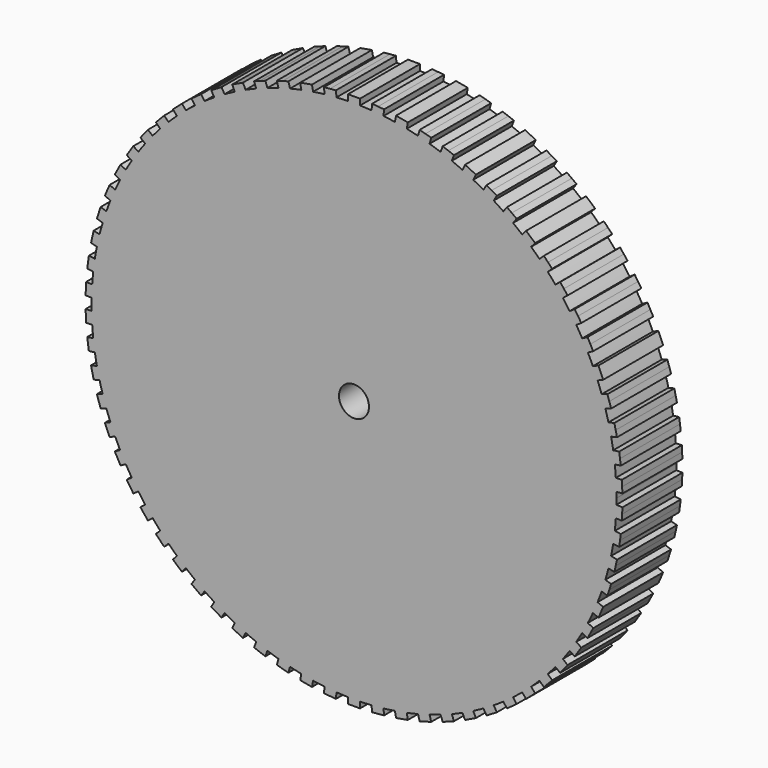
from build123d import *

# Parameters (mm, degrees)
F1_DEPTH = 6.35
F2_R     = 1.27
F3_DEPTH = 6.35


with BuildPart() as f1:
    # F0 (on Front) → F1 (new body)
    with BuildSketch(Plane.XZ):
        with BuildLine():
            ThreePointArc((-22.086295, 2.479152), (-22.023858, 2.983334), (-21.949914, 3.485957))
            Line((-21.949914, 3.485957), (-22.45907, 3.554927))
            Line((-22.45907, 3.554927), (-22.527261, 3.051525))
            Line((-22.527261, 3.051525), (-22.595451, 2.548122))
            Line((-22.595451, 2.548122), (-22.086295, 2.479152))
        make_face()
        with BuildLine():
            Line((-11.223647, -19.775669), (-10.960116, -19.334593))
            ThreePointArc((-10.960116, -19.334593), (-11.399186, -19.079024), (-11.8323, -18.813487))
            Line((-11.8323, -18.813487), (-12.095831, -19.254564))
            Line((-12.095831, -19.254564), (-11.659739, -19.515116))
            Line((-11.659739, -19.515116), (-11.223647, -19.775669))
        make_face()
        with BuildLine():
            ThreePointArc((-20.630822, 8.265579), (-20.436505, 8.734981), (-20.231509, 9.199819))
            Line((-20.231509, 9.199819), (-20.703968, 9.401758))
            Line((-20.703968, 9.401758), (-20.903625, 8.934638))
            Line((-20.903625, 8.934638), (-21.103282, 8.467518))
            Line((-21.103282, 8.467518), (-20.630822, 8.265579))
        make_face()
        with BuildLine():
            ThreePointArc((-21.288689, 6.382972), (-21.137231, 6.867903), (-20.974728, 7.349245))
            Line((-20.974728, 7.349245), (-21.463387, 7.50802))
            Line((-21.463387, 7.50802), (-21.620368, 7.024883))
            Line((-21.620368, 7.024883), (-21.777348, 6.541747))
            Line((-21.777348, 6.541747), (-21.288689, 6.382972))
        make_face()
        with BuildLine():
            Line((19.252209, -12.099578), (18.8234, -11.816523))
            ThreePointArc((18.8234, -11.816523), (18.548391, -12.243685), (18.263689, -12.66445))
            Line((18.263689, -12.66445), (18.692498, -12.947504))
            Line((18.692498, -12.947504), (18.972354, -12.523541))
            Line((18.972354, -12.523541), (19.252209, -12.099578))
        make_face()
        with BuildLine():
            Line((-9.405787, -20.702138), (-9.182855, -20.239215))
            ThreePointArc((-9.182855, -20.239215), (-9.643066, -20.024033), (-10.098239, -19.798389))
            Line((-10.098239, -19.798389), (-10.321171, -20.261312))
            Line((-10.321171, -20.261312), (-9.863479, -20.481725))
            Line((-9.863479, -20.481725), (-9.405787, -20.702138))
        make_face()
        with BuildLine():
            Line((20.259304, -10.325114), (19.806848, -10.081637))
            ThreePointArc((19.806848, -10.081637), (19.571236, -10.531731), (19.325397, -10.976322))
            Line((19.325397, -10.976322), (19.777853, -11.219799))
            Line((19.777853, -11.219799), (20.018578, -10.772456))
            Line((20.018578, -10.772456), (20.259304, -10.325114))
        make_face()
        with BuildLine():
            ThreePointArc((-21.775153, 4.448972), (-21.667773, 4.945528), (-21.549071, 5.439499))
            Line((-21.549071, 5.439499), (-22.049996, 5.553832))
            Line((-22.049996, 5.553832), (-22.163036, 5.058568))
            Line((-22.163036, 5.058568), (-22.276077, 4.563305))
            Line((-22.276077, 4.563305), (-21.775153, 4.448972))
        make_face()
        with BuildLine():
            Line((22.276077, -4.563305), (21.775153, -4.448972))
            ThreePointArc((21.775153, -4.448972), (21.667773, -4.945528), (21.549071, -5.439499))
            Line((21.549071, -5.439499), (22.049996, -5.553832))
            Line((22.049996, -5.553832), (22.163036, -5.058568))
            Line((22.163036, -5.058568), (22.276077, -4.563305))
        make_face()
        with BuildLine():
            Line((-22.687318, -1.527401), (-22.174029, -1.504349))
            ThreePointArc((-22.174029, -1.504349), (-22.202621, -0.997121), (-22.219612, -0.489372))
            Line((-22.219612, -0.489372), (-22.732901, -0.512424))
            Line((-22.732901, -0.512424), (-22.710109, -1.019912))
            Line((-22.710109, -1.019912), (-22.687318, -1.527401))
        make_face()
        with BuildLine():
            Line((-22.049996, -5.553832), (-21.549071, -5.439499))
            ThreePointArc((-21.549071, -5.439499), (-21.667773, -4.945528), (-21.775153, -4.448972))
            Line((-21.775153, -4.448972), (-22.276077, -4.563305))
            Line((-22.276077, -4.563305), (-22.163036, -5.058568))
            Line((-22.163036, -5.058568), (-22.049996, -5.553832))
        make_face()
        with BuildLine():
            ThreePointArc((-8.282873, 20.623885), (-7.809305, 20.80782), (-7.331658, 20.980882))
            Line((-7.331658, 20.980882), (-7.512197, 21.461926))
            Line((-7.512197, 21.461926), (-7.987804, 21.283427))
            Line((-7.987804, 21.283427), (-8.463411, 21.104929))
            Line((-8.463411, 21.104929), (-8.282873, 20.623885))
        make_face()
        with BuildLine():
            ThreePointArc((-11.8323, 18.813487), (-11.399186, 19.079024), (-10.960116, 19.334593))
            Line((-10.960116, 19.334593), (-11.223647, 19.775669))
            Line((-11.223647, 19.775669), (-11.659739, 19.515116))
            Line((-11.659739, 19.515116), (-12.095831, 19.254564))
            Line((-12.095831, 19.254564), (-11.8323, 18.813487))
        make_face()
        with BuildLine():
            Line((-21.463387, -7.50802), (-20.974728, -7.349245))
            ThreePointArc((-20.974728, -7.349245), (-21.137231, -6.867903), (-21.288689, -6.382972))
            Line((-21.288689, -6.382972), (-21.777348, -6.541747))
            Line((-21.777348, -6.541747), (-21.620368, -7.024883))
            Line((-21.620368, -7.024883), (-21.463387, -7.50802))
        make_face()
        with BuildLine():
            ThreePointArc((-10.098239, 19.798389), (-9.643066, 20.024033), (-9.182855, 20.239215))
            Line((-9.182855, 20.239215), (-9.405787, 20.702138))
            Line((-9.405787, 20.702138), (-9.863479, 20.481725))
            Line((-9.863479, 20.481725), (-10.321171, 20.261312))
            Line((-10.321171, 20.261312), (-10.098239, 19.798389))
        make_face()
        with BuildLine():
            Line((-20.703968, -9.401758), (-20.231509, -9.199819))
            ThreePointArc((-20.231509, -9.199819), (-20.436505, -8.734981), (-20.630822, -8.265579))
            Line((-20.630822, -8.265579), (-21.103282, -8.467518))
            Line((-21.103282, -8.467518), (-20.903625, -8.934638))
            Line((-20.903625, -8.934638), (-20.703968, -9.401758))
        make_face()
        with BuildLine():
            ThreePointArc((-16.410979, 14.987675), (-16.064116, 15.358867), (-15.708859, 15.722035))
            Line((-15.708859, 15.722035), (-16.080236, 16.077107))
            Line((-16.080236, 16.077107), (-16.431296, 15.709927))
            Line((-16.431296, 15.709927), (-16.782355, 15.342747))
            Line((-16.782355, 15.342747), (-16.410979, 14.987675))
        make_face()
        with BuildLine():
            Line((-17.456642, -14.570964), (-17.054932, -14.250611))
            ThreePointArc((-17.054932, -14.250611), (-17.376205, -13.857061), (-17.688398, -13.45627))
            Line((-17.688398, -13.45627), (-18.090108, -13.776623))
            Line((-18.090108, -13.776623), (-17.773375, -14.173794))
            Line((-17.773375, -14.173794), (-17.456642, -14.570964))
        make_face()
        with BuildLine():
            Line((12.095831, -19.254564), (11.8323, -18.813487))
            ThreePointArc((11.8323, -18.813487), (11.399186, -19.079024), (10.960116, -19.334593))
            Line((10.960116, -19.334593), (11.223647, -19.775669))
            Line((11.223647, -19.775669), (11.659739, -19.515116))
            Line((11.659739, -19.515116), (12.095831, -19.254564))
        make_face()
        with BuildLine():
            ThreePointArc((20.974728, 7.349245), (21.137231, 6.867903), (21.288689, 6.382972))
            Line((21.288689, 6.382972), (21.777348, 6.541747))
            Line((21.777348, 6.541747), (21.620368, 7.024883))
            Line((21.620368, 7.024883), (21.463387, 7.50802))
            Line((21.463387, 7.50802), (20.974728, 7.349245))
        make_face()
        with BuildLine():
            ThreePointArc((9.182855, 20.239215), (9.643066, 20.024033), (10.098239, 19.798389))
            Line((10.098239, 19.798389), (10.321171, 20.261312))
            Line((10.321171, 20.261312), (9.863479, 20.481725))
            Line((9.863479, 20.481725), (9.405787, 20.702138))
            Line((9.405787, 20.702138), (9.182855, 20.239215))
        make_face()
        with BuildLine():
            ThreePointArc((15.708859, 15.722035), (16.064116, 15.358867), (16.410979, 14.987675))
            Line((16.410979, 14.987675), (16.782355, 15.342747))
            Line((16.782355, 15.342747), (16.431296, 15.709927))
            Line((16.431296, 15.709927), (16.080236, 16.077107))
            Line((16.080236, 16.077107), (15.708859, 15.722035))
        make_face()
        with BuildLine():
            ThreePointArc((19.325397, 10.976322), (19.571236, 10.531731), (19.806848, 10.081637))
            Line((19.806848, 10.081637), (20.259304, 10.325114))
            Line((20.259304, 10.325114), (20.018578, 10.772456))
            Line((20.018578, 10.772456), (19.777853, 11.219799))
            Line((19.777853, 11.219799), (19.325397, 10.976322))
        make_face()
        with BuildLine():
            Line((-18.692498, -12.947504), (-18.263689, -12.66445))
            ThreePointArc((-18.263689, -12.66445), (-18.548391, -12.243685), (-18.8234, -11.816523))
            Line((-18.8234, -11.816523), (-19.252209, -12.099578))
            Line((-19.252209, -12.099578), (-18.972354, -12.523541))
            Line((-18.972354, -12.523541), (-18.692498, -12.947504))
        make_face()
        with BuildLine():
            Line((10.321171, -20.261312), (10.098239, -19.798389))
            ThreePointArc((10.098239, -19.798389), (9.643066, -20.024033), (9.182855, -20.239215))
            Line((9.182855, -20.239215), (9.405787, -20.702138))
            Line((9.405787, -20.702138), (9.863479, -20.481725))
            Line((9.863479, -20.481725), (10.321171, -20.261312))
        make_face()
        with BuildLine():
            ThreePointArc((10.960116, 19.334593), (11.399186, 19.079024), (11.8323, 18.813487))
            Line((11.8323, 18.813487), (12.095831, 19.254564))
            Line((12.095831, 19.254564), (11.659739, 19.515116))
            Line((11.659739, 19.515116), (11.223647, 19.775669))
            Line((11.223647, 19.775669), (10.960116, 19.334593))
        make_face()
        with BuildLine():
            ThreePointArc((7.331658, 20.980882), (7.809305, 20.80782), (8.282873, 20.623885))
            Line((8.282873, 20.623885), (8.463411, 21.104929))
            Line((8.463411, 21.104929), (7.987804, 21.283427))
            Line((7.987804, 21.283427), (7.512197, 21.461926))
            Line((7.512197, 21.461926), (7.331658, 20.980882))
        make_face()
        with BuildLine():
            ThreePointArc((20.231509, 9.199819), (20.436505, 8.734981), (20.630822, 8.265579))
            Line((20.630822, 8.265579), (21.103282, 8.467518))
            Line((21.103282, 8.467518), (20.903625, 8.934638))
            Line((20.903625, 8.934638), (20.703968, 9.401758))
            Line((20.703968, 9.401758), (20.231509, 9.199819))
        make_face()
        with BuildLine():
            ThreePointArc((12.649134, 18.2743), (13.063527, 17.980403), (13.471095, 17.67711))
            Line((13.471095, 17.67711), (13.773103, 18.092788))
            Line((13.773103, 18.092788), (13.362122, 18.391383))
            Line((13.362122, 18.391383), (12.951142, 18.689978))
            Line((12.951142, 18.689978), (12.649134, 18.2743))
        make_face()
        with BuildLine():
            ThreePointArc((14.236308, 17.066874), (14.622688, 16.737013), (15.001428, 16.398408))
            Line((15.001428, 16.398408), (15.339481, 16.785341))
            Line((15.339481, 16.785341), (14.956921, 17.119574))
            Line((14.956921, 17.119574), (14.574361, 17.453807))
            Line((14.574361, 17.453807), (14.236308, 17.066874))
        make_face()
        with BuildLine():
            ThreePointArc((17.054932, 14.250611), (17.376205, 13.857061), (17.688398, 13.45627))
            Line((17.688398, 13.45627), (18.090108, 13.776623))
            Line((18.090108, 13.776623), (17.773375, 14.173794))
            Line((17.773375, 14.173794), (17.456642, 14.570964))
            Line((17.456642, 14.570964), (17.054932, 14.250611))
        make_face()
        with BuildLine():
            ThreePointArc((18.263689, 12.66445), (18.548391, 12.243685), (18.8234, 11.816523))
            Line((18.8234, 11.816523), (19.252209, 12.099578))
            Line((19.252209, 12.099578), (18.972354, 12.523541))
            Line((18.972354, 12.523541), (18.692498, 12.947504))
            Line((18.692498, 12.947504), (18.263689, 12.66445))
        make_face()
        with BuildLine():
            ThreePointArc((-15.001428, 16.398408), (-14.622688, 16.737013), (-14.236308, 17.066874))
            Line((-14.236308, 17.066874), (-14.574361, 17.453807))
            Line((-14.574361, 17.453807), (-14.956921, 17.119574))
            Line((-14.956921, 17.119574), (-15.339481, 16.785341))
            Line((-15.339481, 16.785341), (-15.001428, 16.398408))
        make_face()
        with BuildLine():
            ThreePointArc((-13.471095, 17.67711), (-13.063527, 17.980403), (-12.649134, 18.2743))
            Line((-12.649134, 18.2743), (-12.951142, 18.689978))
            Line((-12.951142, 18.689978), (-13.362122, 18.391383))
            Line((-13.362122, 18.391383), (-13.773103, 18.092788))
            Line((-13.773103, 18.092788), (-13.471095, 17.67711))
        make_face()
        with BuildLine():
            Line((-19.777853, -11.219799), (-19.325397, -10.976322))
            ThreePointArc((-19.325397, -10.976322), (-19.571236, -10.531731), (-19.806848, -10.081637))
            Line((-19.806848, -10.081637), (-20.259304, -10.325114))
            Line((-20.259304, -10.325114), (-20.018578, -10.772456))
            Line((-20.018578, -10.772456), (-19.777853, -11.219799))
        make_face()
        with BuildLine():
            Line((13.773103, -18.092788), (13.471095, -17.67711))
            ThreePointArc((13.471095, -17.67711), (13.063527, -17.980403), (12.649134, -18.2743))
            Line((12.649134, -18.2743), (12.951142, -18.689978))
            Line((12.951142, -18.689978), (13.362122, -18.391383))
            Line((13.362122, -18.391383), (13.773103, -18.092788))
        make_face()
        with BuildLine():
            ThreePointArc((-18.8234, 11.816523), (-18.548391, 12.243685), (-18.263689, 12.66445))
            Line((-18.263689, 12.66445), (-18.692498, 12.947504))
            Line((-18.692498, 12.947504), (-18.972354, 12.523541))
            Line((-18.972354, 12.523541), (-19.252209, 12.099578))
            Line((-19.252209, 12.099578), (-18.8234, 11.816523))
        make_face()
        with BuildLine():
            Line((15.339481, -16.785341), (15.001428, -16.398408))
            ThreePointArc((15.001428, -16.398408), (14.622688, -16.737013), (14.236308, -17.066874))
            Line((14.236308, -17.066874), (14.574361, -17.453807))
            Line((14.574361, -17.453807), (14.956921, -17.119574))
            Line((14.956921, -17.119574), (15.339481, -16.785341))
        make_face()
        with BuildLine():
            ThreePointArc((-17.688398, 13.45627), (-17.376205, 13.857061), (-17.054932, 14.250611))
            Line((-17.054932, 14.250611), (-17.456642, 14.570964))
            Line((-17.456642, 14.570964), (-17.773375, 14.173794))
            Line((-17.773375, 14.173794), (-18.090108, 13.776623))
            Line((-18.090108, 13.776623), (-17.688398, 13.45627))
        make_face()
        with BuildLine():
            ThreePointArc((-19.806848, 10.081637), (-19.571236, 10.531731), (-19.325397, 10.976322))
            Line((-19.325397, 10.976322), (-19.777853, 11.219799))
            Line((-19.777853, 11.219799), (-20.018578, 10.772456))
            Line((-20.018578, 10.772456), (-20.259304, 10.325114))
            Line((-20.259304, 10.325114), (-19.806848, 10.081637))
        make_face()
        with BuildLine():
            Line((-12.951142, -18.689978), (-12.649134, -18.2743))
            ThreePointArc((-12.649134, -18.2743), (-13.063527, -17.980403), (-13.471095, -17.67711))
            Line((-13.471095, -17.67711), (-13.773103, -18.092788))
            Line((-13.773103, -18.092788), (-13.362122, -18.391383))
            Line((-13.362122, -18.391383), (-12.951142, -18.689978))
        make_face()
        with BuildLine():
            Line((-16.080236, -16.077107), (-15.708859, -15.722035))
            ThreePointArc((-15.708859, -15.722035), (-16.064116, -15.358867), (-16.410979, -14.987675))
            Line((-16.410979, -14.987675), (-16.782355, -15.342747))
            Line((-16.782355, -15.342747), (-16.431296, -15.709927))
            Line((-16.431296, -15.709927), (-16.080236, -16.077107))
        make_face()
        with BuildLine():
            Line((16.782355, -15.342747), (16.410979, -14.987675))
            ThreePointArc((16.410979, -14.987675), (16.064116, -15.358867), (15.708859, -15.722035))
            Line((15.708859, -15.722035), (16.080236, -16.077107))
            Line((16.080236, -16.077107), (16.431296, -15.709927))
            Line((16.431296, -15.709927), (16.782355, -15.342747))
        make_face()
        with BuildLine():
            Line((21.103282, -8.467518), (20.630822, -8.265579))
            ThreePointArc((20.630822, -8.265579), (20.436505, -8.734981), (20.231509, -9.199819))
            Line((20.231509, -9.199819), (20.703968, -9.401758))
            Line((20.703968, -9.401758), (20.903625, -8.934638))
            Line((20.903625, -8.934638), (21.103282, -8.467518))
        make_face()
        with BuildLine():
            ThreePointArc((1.485758, 22.175282), (1.992234, 22.135529), (2.497668, 22.084209))
            Line((2.497668, 22.084209), (2.543725, 22.595947))
            Line((2.543725, 22.595947), (2.03777, 22.641484))
            Line((2.03777, 22.641484), (1.531815, 22.68702))
            Line((1.531815, 22.68702), (1.485758, 22.175282))
        make_face()
        with BuildLine():
            Line((18.090108, -13.776623), (17.688398, -13.45627))
            ThreePointArc((17.688398, -13.45627), (17.376205, -13.857061), (17.054932, -14.250611))
            Line((17.054932, -14.250611), (17.456642, -14.570964))
            Line((17.456642, -14.570964), (17.773375, -14.173794))
            Line((17.773375, -14.173794), (18.090108, -13.776623))
        make_face()
        with BuildLine():
            Line((-7.512197, -21.461926), (-7.331658, -20.980882))
            ThreePointArc((-7.331658, -20.980882), (-7.809305, -20.80782), (-8.282873, -20.623885))
            Line((-8.282873, -20.623885), (-8.463411, -21.104929))
            Line((-8.463411, -21.104929), (-7.987804, -21.283427))
            Line((-7.987804, -21.283427), (-7.512197, -21.461926))
        make_face()
        with BuildLine():
            Line((21.777348, -6.541747), (21.288689, -6.382972))
            ThreePointArc((21.288689, -6.382972), (21.137231, -6.867903), (20.974728, -7.349245))
            Line((20.974728, -7.349245), (21.463387, -7.50802))
            Line((21.463387, -7.50802), (21.620368, -7.024883))
            Line((21.620368, -7.024883), (21.777348, -6.541747))
        make_face()
        with BuildLine():
            ThreePointArc((-2.497668, 22.084209), (-1.992234, 22.135529), (-1.485758, 22.175282))
            Line((-1.485758, 22.175282), (-1.531815, 22.68702))
            Line((-1.531815, 22.68702), (-2.03777, 22.641484))
            Line((-2.03777, 22.641484), (-2.543725, 22.595947))
            Line((-2.543725, 22.595947), (-2.497668, 22.084209))
        make_face()
        with BuildLine():
            Line((-22.45907, -3.554927), (-21.949914, -3.485957))
            ThreePointArc((-21.949914, -3.485957), (-22.023858, -2.983334), (-22.086295, -2.479152))
            Line((-22.086295, -2.479152), (-22.595451, -2.548122))
            Line((-22.595451, -2.548122), (-22.527261, -3.051525))
            Line((-22.527261, -3.051525), (-22.45907, -3.554927))
        make_face()
        with BuildLine():
            ThreePointArc((-6.400817, 21.283331), (-5.912669, 21.424075), (-5.421431, 21.553624))
            Line((-5.421431, 21.553624), (-5.558122, 22.048914))
            Line((-5.558122, 22.048914), (-6.047816, 21.913768))
            Line((-6.047816, 21.913768), (-6.537509, 21.778621))
            Line((-6.537509, 21.778621), (-6.400817, 21.283331))
        make_face()
        with BuildLine():
            ThreePointArc((3.467554, 21.952829), (3.968427, 21.867835), (4.467226, 21.771415))
            Line((4.467226, 21.771415), (4.55897, 22.276964))
            Line((4.55897, 22.276964), (4.059134, 22.367671))
            Line((4.059134, 22.367671), (3.559298, 22.458378))
            Line((3.559298, 22.458378), (3.467554, 21.952829))
        make_face()
        with BuildLine():
            ThreePointArc((21.549071, 5.439499), (21.667773, 4.945528), (21.775153, 4.448972))
            Line((21.775153, 4.448972), (22.276077, 4.563305))
            Line((22.276077, 4.563305), (22.163036, 5.058568))
            Line((22.163036, 5.058568), (22.049996, 5.553832))
            Line((22.049996, 5.553832), (21.549071, 5.439499))
        make_face()
        with BuildLine():
            Line((8.463411, -21.104929), (8.282873, -20.623885))
            ThreePointArc((8.282873, -20.623885), (7.809305, -20.80782), (7.331658, -20.980882))
            Line((7.331658, -20.980882), (7.512197, -21.461926))
            Line((7.512197, -21.461926), (7.987804, -21.283427))
            Line((7.987804, -21.283427), (8.463411, -21.104929))
        make_face()
        with BuildLine():
            ThreePointArc((5.421431, 21.553624), (5.912669, 21.424075), (6.400817, 21.283331))
            Line((6.400817, 21.283331), (6.537509, 21.778621))
            Line((6.537509, 21.778621), (6.047816, 21.913768))
            Line((6.047816, 21.913768), (5.558122, 22.048914))
            Line((5.558122, 22.048914), (5.421431, 21.553624))
        make_face()
        with BuildLine():
            Line((-14.574361, -17.453807), (-14.236308, -17.066874))
            ThreePointArc((-14.236308, -17.066874), (-14.622688, -16.737013), (-15.001428, -16.398408))
            Line((-15.001428, -16.398408), (-15.339481, -16.785341))
            Line((-15.339481, -16.785341), (-14.956921, -17.119574))
            Line((-14.956921, -17.119574), (-14.574361, -17.453807))
        make_face()
        with BuildLine():
            ThreePointArc((-22.219612, 0.489372), (-22.202621, 0.997121), (-22.174029, 1.504349))
            Line((-22.174029, 1.504349), (-22.687318, 1.527401))
            Line((-22.687318, 1.527401), (-22.710109, 1.019912))
            Line((-22.710109, 1.019912), (-22.732901, 0.512424))
            Line((-22.732901, 0.512424), (-22.219612, 0.489372))
        make_face()
        with BuildLine():
            ThreePointArc((-4.467226, 21.771415), (-3.968427, 21.867835), (-3.467554, 21.952829))
            Line((-3.467554, 21.952829), (-3.559298, 22.458378))
            Line((-3.559298, 22.458378), (-4.059134, 22.367671))
            Line((-4.059134, 22.367671), (-4.55897, 22.276964))
            Line((-4.55897, 22.276964), (-4.467226, 21.771415))
        make_face()
        with BuildLine():
            ThreePointArc((-0.508, 22.219194), (-0.254017, 22.223548), (0, 22.225))
            Line((0, 22.225), (0, 22.733))
            Line((0, 22.733), (-0.508, 22.733))
            Line((-0.508, 22.733), (-0.508, 22.219194))
        make_face()
        with BuildLine():
            ThreePointArc((0, 22.225), (0.254017, 22.223548), (0.508, 22.219194))
            Line((0.508, 22.219194), (0.508, 22.733))
            Line((0.508, 22.733), (0, 22.733))
            Line((0, 22.733), (0, 22.225))
        make_face()
        with BuildLine():
            ThreePointArc((22.219612, -0.489372), (22.223653, -0.244701), (22.225, 0))
            ThreePointArc((22.225, 0), (22.223653, 0.244701), (22.219612, 0.489372))
            ThreePointArc((22.219612, 0.489372), (22.202621, 0.997121), (22.174029, 1.504349))
            ThreePointArc((22.174029, 1.504349), (22.135529, 1.992234), (22.086295, 2.479152))
            ThreePointArc((22.086295, 2.479152), (22.023858, 2.983334), (21.949914, 3.485957))
            ThreePointArc((21.949914, 3.485957), (21.867835, 3.968427), (21.775153, 4.448972))
            ThreePointArc((21.775153, 4.448972), (21.667773, 4.945528), (21.549071, 5.439499))
            ThreePointArc((21.549071, 5.439499), (21.424075, 5.912669), (21.288689, 6.382972))
            ThreePointArc((21.288689, 6.382972), (21.137231, 6.867903), (20.974728, 7.349245))
            ThreePointArc((20.974728, 7.349245), (20.80782, 7.809305), (20.630822, 8.265579))
            ThreePointArc((20.630822, 8.265579), (20.436505, 8.734981), (20.231509, 9.199819))
            ThreePointArc((20.231509, 9.199819), (20.024033, 9.643066), (19.806848, 10.081637))
            ThreePointArc((19.806848, 10.081637), (19.571236, 10.531731), (19.325397, 10.976322))
            ThreePointArc((19.325397, 10.976322), (19.079024, 11.399186), (18.8234, 11.816523))
            ThreePointArc((18.8234, 11.816523), (18.548391, 12.243685), (18.263689, 12.66445))
            ThreePointArc((18.263689, 12.66445), (17.980403, 13.063527), (17.688398, 13.45627))
            ThreePointArc((17.688398, 13.45627), (17.376205, 13.857061), (17.054932, 14.250611))
            ThreePointArc((17.054932, 14.250611), (16.737013, 14.622688), (16.410979, 14.987675))
            ThreePointArc((16.410979, 14.987675), (16.064116, 15.358867), (15.708859, 15.722035))
            ThreePointArc((15.708859, 15.722035), (15.358867, 16.064116), (15.001428, 16.398408))
            ThreePointArc((15.001428, 16.398408), (14.622688, 16.737013), (14.236308, 17.066874))
            ThreePointArc((14.236308, 17.066874), (13.857061, 17.376205), (13.471095, 17.67711))
            ThreePointArc((13.471095, 17.67711), (13.063527, 17.980403), (12.649134, 18.2743))
            ThreePointArc((12.649134, 18.2743), (12.243685, 18.548391), (11.8323, 18.813487))
            ThreePointArc((11.8323, 18.813487), (11.399186, 19.079024), (10.960116, 19.334593))
            ThreePointArc((10.960116, 19.334593), (10.531731, 19.571236), (10.098239, 19.798389))
            ThreePointArc((10.098239, 19.798389), (9.643066, 20.024033), (9.182855, 20.239215))
            ThreePointArc((9.182855, 20.239215), (8.734981, 20.436505), (8.282873, 20.623885))
            ThreePointArc((8.282873, 20.623885), (7.809305, 20.80782), (7.331658, 20.980882))
            ThreePointArc((7.331658, 20.980882), (6.867903, 21.137231), (6.400817, 21.283331))
            ThreePointArc((6.400817, 21.283331), (5.912669, 21.424075), (5.421431, 21.553624))
            ThreePointArc((5.421431, 21.553624), (4.945528, 21.667773), (4.467226, 21.771415))
            ThreePointArc((4.467226, 21.771415), (3.968427, 21.867835), (3.467554, 21.952829))
            ThreePointArc((3.467554, 21.952829), (2.983334, 22.023858), (2.497668, 22.084209))
            ThreePointArc((2.497668, 22.084209), (1.992234, 22.135529), (1.485758, 22.175282))
            ThreePointArc((1.485758, 22.175282), (0.997121, 22.202621), (0.508, 22.219194))
            ThreePointArc((0.508, 22.219194), (0.254017, 22.223548), (0, 22.225))
            ThreePointArc((0, 22.225), (-0.254017, 22.223548), (-0.508, 22.219194))
            ThreePointArc((-0.508, 22.219194), (-0.997121, 22.202621), (-1.485758, 22.175282))
            ThreePointArc((-1.485758, 22.175282), (-1.992234, 22.135529), (-2.497668, 22.084209))
            ThreePointArc((-2.497668, 22.084209), (-2.983334, 22.023858), (-3.467554, 21.952829))
            ThreePointArc((-3.467554, 21.952829), (-3.968427, 21.867835), (-4.467226, 21.771415))
            ThreePointArc((-4.467226, 21.771415), (-4.945528, 21.667773), (-5.421431, 21.553624))
            ThreePointArc((-5.421431, 21.553624), (-5.912669, 21.424075), (-6.400817, 21.283331))
            ThreePointArc((-6.400817, 21.283331), (-6.867903, 21.137231), (-7.331658, 20.980882))
            ThreePointArc((-7.331658, 20.980882), (-7.809305, 20.80782), (-8.282873, 20.623885))
            ThreePointArc((-8.282873, 20.623885), (-8.734981, 20.436505), (-9.182855, 20.239215))
            ThreePointArc((-9.182855, 20.239215), (-9.643066, 20.024033), (-10.098239, 19.798389))
            ThreePointArc((-10.098239, 19.798389), (-10.531731, 19.571236), (-10.960116, 19.334593))
            ThreePointArc((-10.960116, 19.334593), (-11.399186, 19.079024), (-11.8323, 18.813487))
            ThreePointArc((-11.8323, 18.813487), (-12.243685, 18.548391), (-12.649134, 18.2743))
            ThreePointArc((-12.649134, 18.2743), (-13.063527, 17.980403), (-13.471095, 17.67711))
            ThreePointArc((-13.471095, 17.67711), (-13.857061, 17.376205), (-14.236308, 17.066874))
            ThreePointArc((-14.236308, 17.066874), (-14.622688, 16.737013), (-15.001428, 16.398408))
            ThreePointArc((-15.001428, 16.398408), (-15.358867, 16.064116), (-15.708859, 15.722035))
            ThreePointArc((-15.708859, 15.722035), (-16.064116, 15.358867), (-16.410979, 14.987675))
            ThreePointArc((-16.410979, 14.987675), (-16.737013, 14.622688), (-17.054932, 14.250611))
            ThreePointArc((-17.054932, 14.250611), (-17.376205, 13.857061), (-17.688398, 13.45627))
            ThreePointArc((-17.688398, 13.45627), (-17.980403, 13.063527), (-18.263689, 12.66445))
            ThreePointArc((-18.263689, 12.66445), (-18.548391, 12.243685), (-18.8234, 11.816523))
            ThreePointArc((-18.8234, 11.816523), (-19.079024, 11.399186), (-19.325397, 10.976322))
            ThreePointArc((-19.325397, 10.976322), (-19.571236, 10.531731), (-19.806848, 10.081637))
            ThreePointArc((-19.806848, 10.081637), (-20.024033, 9.643066), (-20.231509, 9.199819))
            ThreePointArc((-20.231509, 9.199819), (-20.436505, 8.734981), (-20.630822, 8.265579))
            ThreePointArc((-20.630822, 8.265579), (-20.80782, 7.809305), (-20.974728, 7.349245))
            ThreePointArc((-20.974728, 7.349245), (-21.137231, 6.867903), (-21.288689, 6.382972))
            ThreePointArc((-21.288689, 6.382972), (-21.424075, 5.912669), (-21.549071, 5.439499))
            ThreePointArc((-21.549071, 5.439499), (-21.667773, 4.945528), (-21.775153, 4.448972))
            ThreePointArc((-21.775153, 4.448972), (-21.867835, 3.968427), (-21.949914, 3.485957))
            ThreePointArc((-21.949914, 3.485957), (-22.023858, 2.983334), (-22.086295, 2.479152))
            ThreePointArc((-22.086295, 2.479152), (-22.135529, 1.992234), (-22.174029, 1.504349))
            ThreePointArc((-22.174029, 1.504349), (-22.202621, 0.997121), (-22.219612, 0.489372))
            ThreePointArc((-22.219612, 0.489372), (-22.225, 0), (-22.219612, -0.489372))
            ThreePointArc((-22.219612, -0.489372), (-22.202621, -0.997121), (-22.174029, -1.504349))
            ThreePointArc((-22.174029, -1.504349), (-22.135529, -1.992234), (-22.086295, -2.479152))
            ThreePointArc((-22.086295, -2.479152), (-22.023858, -2.983334), (-21.949914, -3.485957))
            ThreePointArc((-21.949914, -3.485957), (-21.867835, -3.968427), (-21.775153, -4.448972))
            ThreePointArc((-21.775153, -4.448972), (-21.667773, -4.945528), (-21.549071, -5.439499))
            ThreePointArc((-21.549071, -5.439499), (-21.424075, -5.912669), (-21.288689, -6.382972))
            ThreePointArc((-21.288689, -6.382972), (-21.137231, -6.867903), (-20.974728, -7.349245))
            ThreePointArc((-20.974728, -7.349245), (-20.80782, -7.809305), (-20.630822, -8.265579))
            ThreePointArc((-20.630822, -8.265579), (-20.436505, -8.734981), (-20.231509, -9.199819))
            ThreePointArc((-20.231509, -9.199819), (-20.024033, -9.643066), (-19.806848, -10.081637))
            ThreePointArc((-19.806848, -10.081637), (-19.571236, -10.531731), (-19.325397, -10.976322))
            ThreePointArc((-19.325397, -10.976322), (-19.079024, -11.399186), (-18.8234, -11.816523))
            ThreePointArc((-18.8234, -11.816523), (-18.548391, -12.243685), (-18.263689, -12.66445))
            ThreePointArc((-18.263689, -12.66445), (-17.980403, -13.063527), (-17.688398, -13.45627))
            ThreePointArc((-17.688398, -13.45627), (-17.376205, -13.857061), (-17.054932, -14.250611))
            ThreePointArc((-17.054932, -14.250611), (-16.737013, -14.622688), (-16.410979, -14.987675))
            ThreePointArc((-16.410979, -14.987675), (-16.064116, -15.358867), (-15.708859, -15.722035))
            ThreePointArc((-15.708859, -15.722035), (-15.358867, -16.064116), (-15.001428, -16.398408))
            ThreePointArc((-15.001428, -16.398408), (-14.622688, -16.737013), (-14.236308, -17.066874))
            ThreePointArc((-14.236308, -17.066874), (-13.857061, -17.376205), (-13.471095, -17.67711))
            ThreePointArc((-13.471095, -17.67711), (-13.063527, -17.980403), (-12.649134, -18.2743))
            ThreePointArc((-12.649134, -18.2743), (-12.243685, -18.548391), (-11.8323, -18.813487))
            ThreePointArc((-11.8323, -18.813487), (-11.399186, -19.079024), (-10.960116, -19.334593))
            ThreePointArc((-10.960116, -19.334593), (-10.531731, -19.571236), (-10.098239, -19.798389))
            ThreePointArc((-10.098239, -19.798389), (-9.643066, -20.024033), (-9.182855, -20.239215))
            ThreePointArc((-9.182855, -20.239215), (-8.734981, -20.436505), (-8.282873, -20.623885))
            ThreePointArc((-8.282873, -20.623885), (-7.809305, -20.80782), (-7.331658, -20.980882))
            ThreePointArc((-7.331658, -20.980882), (-6.867903, -21.137231), (-6.400817, -21.283331))
            ThreePointArc((-6.400817, -21.283331), (-5.912669, -21.424075), (-5.421431, -21.553624))
            ThreePointArc((-5.421431, -21.553624), (-4.945528, -21.667773), (-4.467226, -21.771415))
            ThreePointArc((-4.467226, -21.771415), (-3.968427, -21.867835), (-3.467554, -21.952829))
            ThreePointArc((-3.467554, -21.952829), (-2.983334, -22.023858), (-2.497668, -22.084209))
            ThreePointArc((-2.497668, -22.084209), (-1.992234, -22.135529), (-1.485758, -22.175282))
            ThreePointArc((-1.485758, -22.175282), (-0.997121, -22.202621), (-0.508, -22.219194))
            ThreePointArc((-0.508, -22.219194), (0, -22.225), (0.508, -22.219194))
            ThreePointArc((0.508, -22.219194), (0.997121, -22.202621), (1.485758, -22.175282))
            ThreePointArc((1.485758, -22.175282), (1.992234, -22.135529), (2.497668, -22.084209))
            ThreePointArc((2.497668, -22.084209), (2.983334, -22.023858), (3.467554, -21.952829))
            ThreePointArc((3.467554, -21.952829), (3.968427, -21.867835), (4.467226, -21.771415))
            ThreePointArc((4.467226, -21.771415), (4.945528, -21.667773), (5.421431, -21.553624))
            ThreePointArc((5.421431, -21.553624), (5.912669, -21.424075), (6.400817, -21.283331))
            ThreePointArc((6.400817, -21.283331), (6.867903, -21.137231), (7.331658, -20.980882))
            ThreePointArc((7.331658, -20.980882), (7.809305, -20.80782), (8.282873, -20.623885))
            ThreePointArc((8.282873, -20.623885), (8.734981, -20.436505), (9.182855, -20.239215))
            ThreePointArc((9.182855, -20.239215), (9.643066, -20.024033), (10.098239, -19.798389))
            ThreePointArc((10.098239, -19.798389), (10.531731, -19.571236), (10.960116, -19.334593))
            ThreePointArc((10.960116, -19.334593), (11.399186, -19.079024), (11.8323, -18.813487))
            ThreePointArc((11.8323, -18.813487), (12.243685, -18.548391), (12.649134, -18.2743))
            ThreePointArc((12.649134, -18.2743), (13.063527, -17.980403), (13.471095, -17.67711))
            ThreePointArc((13.471095, -17.67711), (13.857061, -17.376205), (14.236308, -17.066874))
            ThreePointArc((14.236308, -17.066874), (14.622688, -16.737013), (15.001428, -16.398408))
            ThreePointArc((15.001428, -16.398408), (15.358867, -16.064116), (15.708859, -15.722035))
            ThreePointArc((15.708859, -15.722035), (16.064116, -15.358867), (16.410979, -14.987675))
            ThreePointArc((16.410979, -14.987675), (16.737013, -14.622688), (17.054932, -14.250611))
            ThreePointArc((17.054932, -14.250611), (17.376205, -13.857061), (17.688398, -13.45627))
            ThreePointArc((17.688398, -13.45627), (17.980403, -13.063527), (18.263689, -12.66445))
            ThreePointArc((18.263689, -12.66445), (18.548391, -12.243685), (18.8234, -11.816523))
            ThreePointArc((18.8234, -11.816523), (19.079024, -11.399186), (19.325397, -10.976322))
            ThreePointArc((19.325397, -10.976322), (19.571236, -10.531731), (19.806848, -10.081637))
            ThreePointArc((19.806848, -10.081637), (20.024033, -9.643066), (20.231509, -9.199819))
            ThreePointArc((20.231509, -9.199819), (20.436505, -8.734981), (20.630822, -8.265579))
            ThreePointArc((20.630822, -8.265579), (20.80782, -7.809305), (20.974728, -7.349245))
            ThreePointArc((20.974728, -7.349245), (21.137231, -6.867903), (21.288689, -6.382972))
            ThreePointArc((21.288689, -6.382972), (21.424075, -5.912669), (21.549071, -5.439499))
            ThreePointArc((21.549071, -5.439499), (21.667773, -4.945528), (21.775153, -4.448972))
            ThreePointArc((21.775153, -4.448972), (21.867835, -3.968427), (21.949914, -3.485957))
            ThreePointArc((21.949914, -3.485957), (22.023858, -2.983334), (22.086295, -2.479152))
            ThreePointArc((22.086295, -2.479152), (22.135529, -1.992234), (22.174029, -1.504349))
            ThreePointArc((22.174029, -1.504349), (22.202621, -0.997121), (22.219612, -0.489372))
        make_face()
        with BuildLine():
            ThreePointArc((21.949914, 3.485957), (22.023858, 2.983334), (22.086295, 2.479152))
            Line((22.086295, 2.479152), (22.595451, 2.548122))
            Line((22.595451, 2.548122), (22.527261, 3.051525))
            Line((22.527261, 3.051525), (22.45907, 3.554927))
            Line((22.45907, 3.554927), (21.949914, 3.485957))
        make_face()
        with BuildLine():
            Line((-5.558122, -22.048914), (-5.421431, -21.553624))
            ThreePointArc((-5.421431, -21.553624), (-5.912669, -21.424075), (-6.400817, -21.283331))
            Line((-6.400817, -21.283331), (-6.537509, -21.778621))
            Line((-6.537509, -21.778621), (-6.047816, -21.913768))
            Line((-6.047816, -21.913768), (-5.558122, -22.048914))
        make_face()
        with BuildLine():
            Line((22.595451, -2.548122), (22.086295, -2.479152))
            ThreePointArc((22.086295, -2.479152), (22.023858, -2.983334), (21.949914, -3.485957))
            Line((21.949914, -3.485957), (22.45907, -3.554927))
            Line((22.45907, -3.554927), (22.527261, -3.051525))
            Line((22.527261, -3.051525), (22.595451, -2.548122))
        make_face()
        with BuildLine():
            Line((-1.531815, -22.68702), (-1.485758, -22.175282))
            ThreePointArc((-1.485758, -22.175282), (-1.992234, -22.135529), (-2.497668, -22.084209))
            Line((-2.497668, -22.084209), (-2.543725, -22.595947))
            Line((-2.543725, -22.595947), (-2.03777, -22.641484))
            Line((-2.03777, -22.641484), (-1.531815, -22.68702))
        make_face()
        with BuildLine():
            Line((0.508, -22.733), (0.508, -22.219194))
            ThreePointArc((0.508, -22.219194), (0, -22.225), (-0.508, -22.219194))
            Line((-0.508, -22.219194), (-0.508, -22.733))
            Line((-0.508, -22.733), (0, -22.733))
            Line((0, -22.733), (0.508, -22.733))
        make_face()
        with BuildLine():
            Line((22.732901, -0.512424), (22.219612, -0.489372))
            ThreePointArc((22.219612, -0.489372), (22.202621, -0.997121), (22.174029, -1.504349))
            Line((22.174029, -1.504349), (22.687318, -1.527401))
            Line((22.687318, -1.527401), (22.710109, -1.019912))
            Line((22.710109, -1.019912), (22.732901, -0.512424))
        make_face()
        with BuildLine():
            Line((2.543725, -22.595947), (2.497668, -22.084209))
            ThreePointArc((2.497668, -22.084209), (1.992234, -22.135529), (1.485758, -22.175282))
            Line((1.485758, -22.175282), (1.531815, -22.68702))
            Line((1.531815, -22.68702), (2.03777, -22.641484))
            Line((2.03777, -22.641484), (2.543725, -22.595947))
        make_face()
        with BuildLine():
            Line((6.537509, -21.778621), (6.400817, -21.283331))
            ThreePointArc((6.400817, -21.283331), (5.912669, -21.424075), (5.421431, -21.553624))
            Line((5.421431, -21.553624), (5.558122, -22.048914))
            Line((5.558122, -22.048914), (6.047816, -21.913768))
            Line((6.047816, -21.913768), (6.537509, -21.778621))
        make_face()
        with BuildLine():
            Line((4.55897, -22.276964), (4.467226, -21.771415))
            ThreePointArc((4.467226, -21.771415), (3.968427, -21.867835), (3.467554, -21.952829))
            Line((3.467554, -21.952829), (3.559298, -22.458378))
            Line((3.559298, -22.458378), (4.059134, -22.367671))
            Line((4.059134, -22.367671), (4.55897, -22.276964))
        make_face()
        with BuildLine():
            ThreePointArc((22.174029, 1.504349), (22.202621, 0.997121), (22.219612, 0.489372))
            Line((22.219612, 0.489372), (22.732901, 0.512424))
            Line((22.732901, 0.512424), (22.710109, 1.019912))
            Line((22.710109, 1.019912), (22.687318, 1.527401))
            Line((22.687318, 1.527401), (22.174029, 1.504349))
        make_face()
        with BuildLine():
            Line((-3.559298, -22.458378), (-3.467554, -21.952829))
            ThreePointArc((-3.467554, -21.952829), (-3.968427, -21.867835), (-4.467226, -21.771415))
            Line((-4.467226, -21.771415), (-4.55897, -22.276964))
            Line((-4.55897, -22.276964), (-4.059134, -22.367671))
            Line((-4.059134, -22.367671), (-3.559298, -22.458378))
        make_face()
    extrude(amount=F1_DEPTH)

    # F2 (on face) → F3 (cut)
    with BuildSketch(Plane.XZ.offset(6.35)):
        Circle(F2_R)
    extrude(amount=-F3_DEPTH, mode=Mode.SUBTRACT)


solid = f1.part
